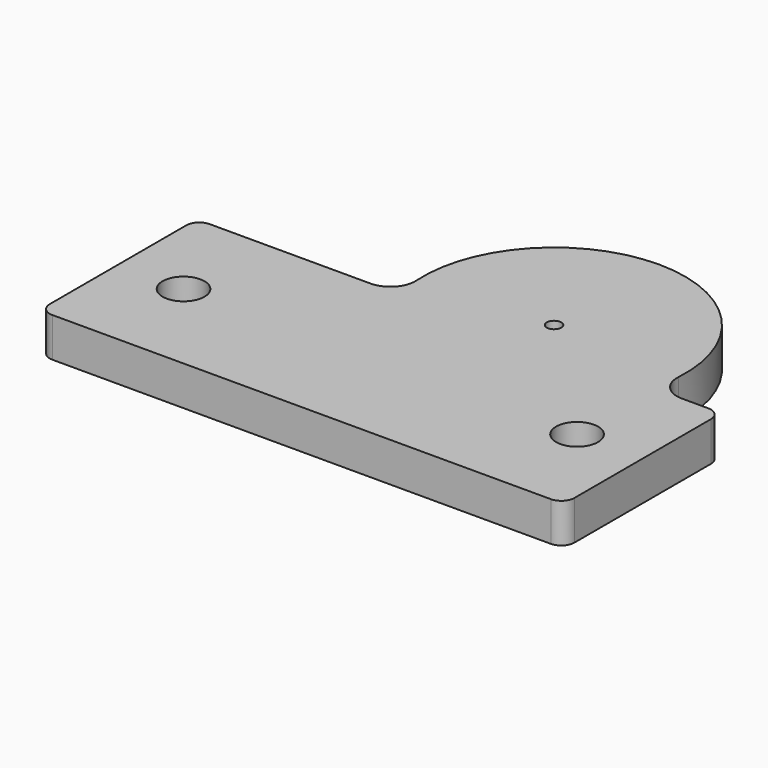
from build123d import *

# Parameters (mm, degrees)
F0_R     = 1.6
F0_R_2   = 0.55
F1_DEPTH = 3
F2_R     = 1


with BuildPart() as f1:
    # F0 (on Top) → F1 (new body)
    with BuildSketch(Plane.XY):
        with BuildLine():
            Line((20, 0), (20, 7.5))
            Line((20, 7.5), (17, 7.5))
            ThreePointArc((17, 7.5), (15.615652, 8.099204), (15.105048, 9.518622))
            ThreePointArc((15.105048, 9.518622), (5.125, 20.15), (-4.855048, 9.518622))
            ThreePointArc((-4.855048, 9.518622), (-5.365652, 8.099204), (-6.75, 7.5))
            Line((-6.75, 7.5), (-20, 7.5))
            Line((-20, 7.5), (-20, 0))
            Line((-20, 0), (-20, -7.5))
            Line((-20, -7.5), (20, -7.5))
            Line((20, -7.5), (20, 0))
        make_face()
        with Locations((-15, 0)):
            Circle(F0_R, mode=Mode.SUBTRACT)
        with Locations((15, 0)):
            Circle(F0_R, mode=Mode.SUBTRACT)
        with Locations((5.125, 10.15)):
            Circle(F0_R_2, mode=Mode.SUBTRACT)
    extrude(amount=F1_DEPTH)

    # F2
    f2_edges = [f1.edges().sort_by_distance(p)[0] for p in [
        (20, -7.5, 1.5),
        (20, 7.5, 1.5),
        (-20, -7.5, 1.5),
        (-20, 7.5, 1.5),
    ]]
    fillet(f2_edges, radius=F2_R)


solid = f1.part
